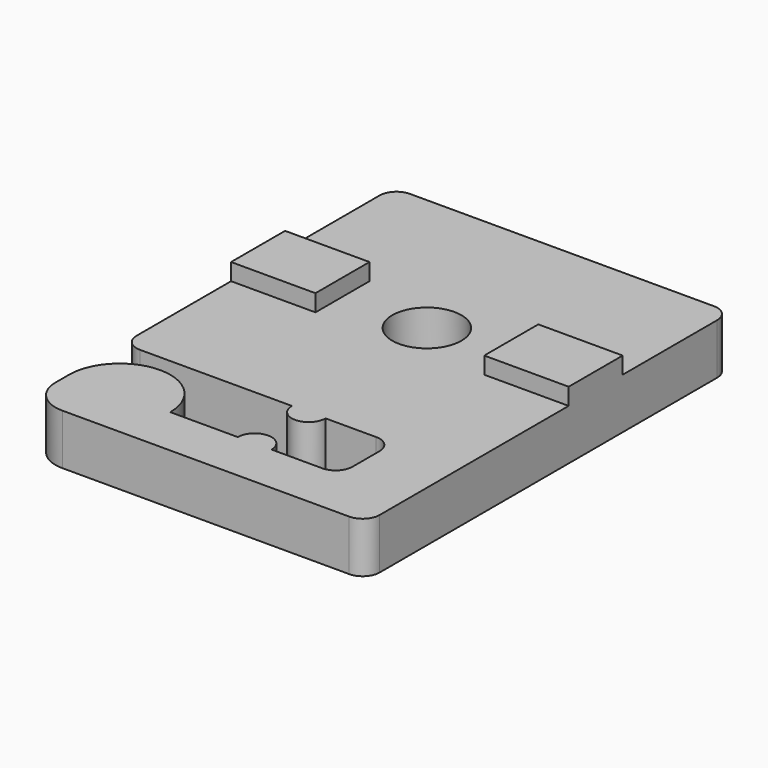
from build123d import *

# Parameters (mm, degrees)
CYLINDER005_R     = 2.05
CYLINDER005_DEPTH = 10
BOX008_W          = 5
BOX008_H          = 4
BOX008_DEPTH      = 4
BOX005_W          = 20
BOX005_H          = 20
BOX005_DEPTH      = 3
BOX007_W          = 4
BOX007_H          = 7
BOX007_DEPTH      = 3
BOX006_W          = 20
BOX006_H          = 3
BOX006_DEPTH      = 3
CYLINDER002_R     = 3
CYLINDER002_DEPTH = 3
CYLINDER004_R     = 1
CYLINDER004_DEPTH = 3
CYLINDER003_R     = 1
CYLINDER003_DEPTH = 3
BOX009_W          = 5
BOX009_H          = 4
BOX009_DEPTH      = 4
FILLET002_R       = 2
FILLET003_R       = 1


with BuildPart() as cylinder005:
    # Cylinder005 → Cylinder005 (new body)
    with BuildSketch(Plane.XY):
        Circle(CYLINDER005_R)
    extrude(amount=CYLINDER005_DEPTH)


with BuildPart() as cube008:
    # Box008 → Box008 (new body)
    with BuildSketch(Plane(origin=(-10, -2, 0), x_dir=(1, 0, 0), z_dir=(0, 0, 1))):
        with Locations((2.5, 2)):
            Rectangle(BOX008_W, BOX008_H)
    extrude(amount=BOX008_DEPTH)


with BuildPart() as cube005:
    # Box005 → Box005 (new body)
    with BuildSketch(Plane(origin=(-10, -10, 0), x_dir=(1, 0, 0), z_dir=(0, 0, 1))):
        with Locations((10, 10)):
            Rectangle(BOX005_W, BOX005_H)
    extrude(amount=BOX005_DEPTH)


with BuildPart() as cube007:
    # Box007 → Box007 (new body)
    with BuildSketch(Plane(origin=(6, -17, 0), x_dir=(1, 0, 0), z_dir=(0, 0, 1))):
        with Locations((2, 3.5)):
            Rectangle(BOX007_W, BOX007_H)
    extrude(amount=BOX007_DEPTH)


with BuildPart() as cube006:
    # Box006 → Box006 (new body)
    with BuildSketch(Plane(origin=(-10, -17, 0), x_dir=(1, 0, 0), z_dir=(0, 0, 1))):
        with Locations((10, 1.5)):
            Rectangle(BOX006_W, BOX006_H)
    extrude(amount=BOX006_DEPTH)


with BuildPart() as cylinder002:
    # Cylinder002 → Cylinder002 (new body)
    with BuildSketch(Plane(origin=(-7, -14, 0), x_dir=(1, 0, 0), z_dir=(0, 0, 1))):
        Circle(CYLINDER002_R)
    extrude(amount=CYLINDER002_DEPTH)


with BuildPart() as cylinder004:
    # Cylinder004 → Cylinder004 (new body)
    with BuildSketch(Plane(origin=(1, -14, 0), x_dir=(1, 0, 0), z_dir=(0, 0, 1))):
        Circle(CYLINDER004_R)
    extrude(amount=CYLINDER004_DEPTH)


with BuildPart() as cylinder003:
    # Cylinder003 → Cylinder003 (new body)
    with BuildSketch(Plane(origin=(1, -10, 0), x_dir=(1, 0, 0), z_dir=(0, 0, 1))):
        Circle(CYLINDER003_R)
    extrude(amount=CYLINDER003_DEPTH)


with BuildPart() as motor_cable:
    # Box009 → Box009 (new body)
    with BuildSketch(Plane(origin=(5, -2, 0), x_dir=(1, 0, 0), z_dir=(0, 0, 1))):
        with Locations((2.5, 2)):
            Rectangle(BOX009_W, BOX009_H)
    extrude(amount=BOX009_DEPTH)

    # Fusion001: union Cube008, Cube005, Cube007, Cube006, Cylinder002, Cylinder004, Cylinder003
    add(cube008.part)
    add(cube005.part)
    add(cube007.part)
    add(cube006.part)
    add(cylinder002.part)
    add(cylinder004.part)
    add(cylinder003.part)

    # Fillet002
    fillet002_edges = [motor_cable.edges().sort_by_distance(p)[0] for p in [
        (-10, -17, 1.5),
    ]]
    fillet(fillet002_edges, radius=FILLET002_R)

    # Fillet003
    fillet003_edges = [motor_cable.edges().sort_by_distance(p)[0] for p in [
        (10, -17, 1.5),
        (6, -14, 1.5),
        (6, -10, 1.5),
        (-10, -10, 1.5),
        (-10, 10, 1.5),
        (10, 10, 1.5),
    ]]
    fillet(fillet003_edges, radius=FILLET003_R)

    # Cut001: cut Cylinder005
    add(cylinder005.part, mode=Mode.SUBTRACT)


solid = motor_cable.part
